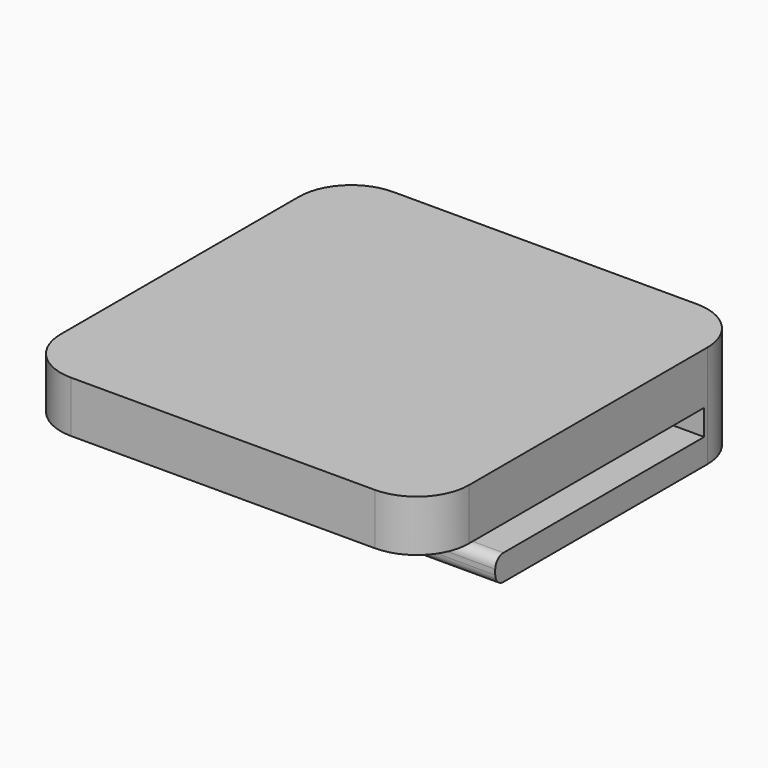
from build123d import *

# Parameters (mm, degrees)
F0_W     = 39.717194
F0_H     = 39.141584
F1_DEPTH = 5
F2_W     = 39.717194
F2_H     = 5.46831
F3_DEPTH = 5
F4_W     = 39.717194
F4_H     = 2.5
F5_DEPTH = 25.4
F6_R     = 5.08
F7_R     = 1


with BuildPart() as f1:
    # F0 (on Top) → F1 (new body)
    with BuildSketch(Plane.XY):
        Rectangle(F0_W, F0_H)
    extrude(amount=F1_DEPTH)

    # F2 (on face) → F3 (join)
    with BuildSketch(Plane(origin=(0, 0, 0), x_dir=(1, 0, 0), z_dir=(0, 0, -1))):
        with Locations((0, -16.836637)):
            Rectangle(F2_W, F2_H)
    extrude(amount=F3_DEPTH)

    # F4 (on face) → F5 (join)
    with BuildSketch(Plane.XZ.offset(-14.102482)):
        with Locations((0, -3.75)):
            Rectangle(F4_W, F4_H)
    extrude(amount=F5_DEPTH)

    # F6
    f6_edges = [f1.edges().sort_by_distance(p)[0] for p in [
        (19.858597, 19.570792, 0),
        (19.858597, -19.570792, 2.5),
        (-19.858597, 19.570792, 0),
        (-19.858597, -19.570792, 2.5),
    ]]
    fillet(f6_edges, radius=F6_R)

    # F7
    f7_edges = [f1.edges().sort_by_distance(p)[0] for p in [
        (0, -11.297518, -5),
        (0, -11.297518, -2.5),
    ]]
    fillet(f7_edges, radius=F7_R)


solid = f1.part
